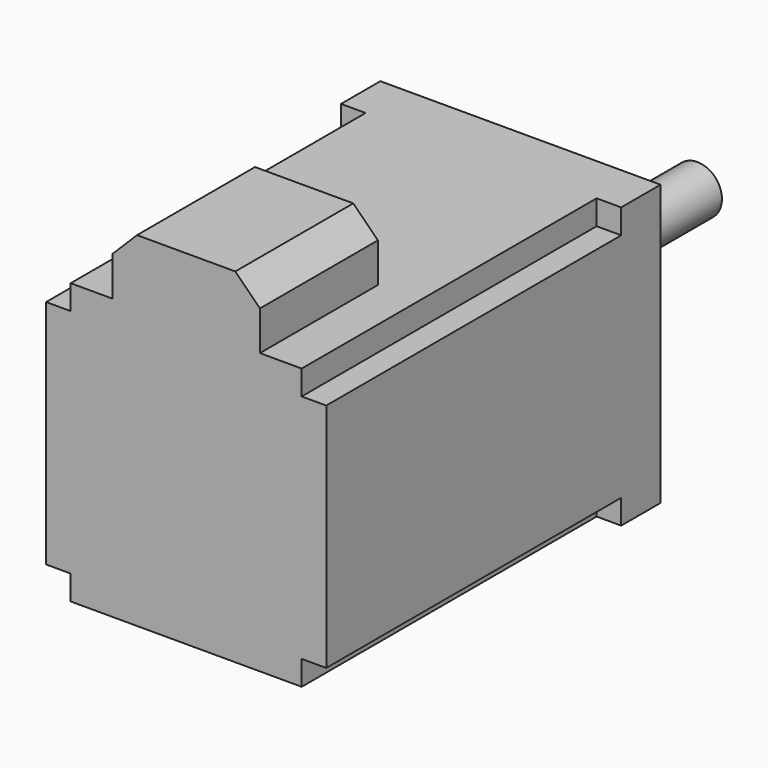
from build123d import *

# Parameters (mm, degrees)
F0_W      = 57
F0_H      = 57
F1_DEPTH  = 10
F2_W      = 5
F2_H      = 47
F2_W_2    = 47
F2_H_2    = 5
F3_DEPTH  = 85.0000008941
F4_W      = 30
F4_H      = 13
F5_DEPTH  = 30
F6_SIZE   = 5
F7_R      = 7.5
F8_DEPTH  = 5
F9_R      = 5
F10_DEPTH = 50


with BuildPart() as f1:
    # F0 (on Front) → F1 (new body)
    with BuildSketch(Plane.XZ):
        Rectangle(F0_W, F0_H)
    extrude(amount=F1_DEPTH)

    # F2 (on face) → F3 (join)
    with BuildSketch(Plane(origin=(0, 0, 0), x_dir=(-1, 0, 0), z_dir=(0, 1, 0))):
        with Locations((-26, 0)):
            Rectangle(F2_W, F2_H)
        with Locations((0, 26)):
            Rectangle(F2_W_2, F2_H_2)
        with Locations((26, 0)):
            Rectangle(F2_W, F2_H)
        Rectangle(F2_W_2, F2_H)
        with Locations((0, -26)):
            Rectangle(F2_W_2, F2_H_2)
    extrude(amount=-F3_DEPTH)

    # F4 (on face) → F5 (join)
    with BuildSketch(Plane.XZ.offset(85.0000008941)):
        with Locations((0, 35)):
            Rectangle(F4_W, F4_H)
    extrude(amount=-F5_DEPTH)

    # F6
    f6_edges = [f1.edges().sort_by_distance(p)[0] for p in [
        (15, -70.000001, 41.5),
        (-15, -70.000001, 41.5),
    ]]
    chamfer(f6_edges, length=F6_SIZE)

    # F7 (on face) → F8 (cut)
    with BuildSketch(Plane(origin=(0, 0, 0), x_dir=(-1, 0, 0), z_dir=(0, 1, 0))):
        Circle(F7_R)
    extrude(amount=-F8_DEPTH, mode=Mode.SUBTRACT)

    # F9 (on face) → F10 (join)
    with BuildSketch(Plane(origin=(0, -5, 0), x_dir=(-1, 0, 0), z_dir=(0, 1, 0))):
        Circle(F9_R)
    extrude(amount=F10_DEPTH)


solid = f1.part
